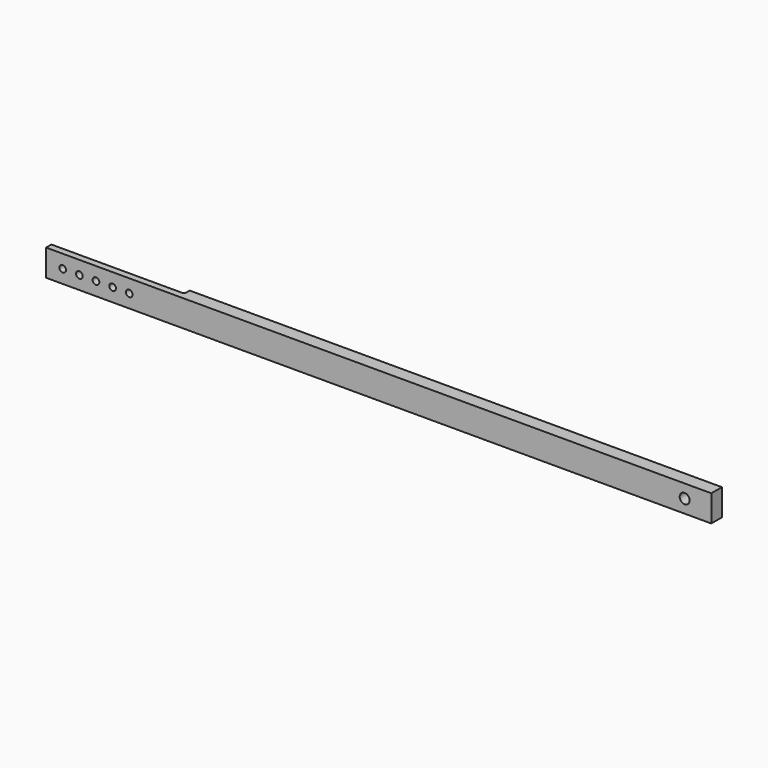
from build123d import *

# Parameters (mm, degrees)
F0_W     = 20
F0_H     = 40
F1_DEPTH = 500
F2_R     = 7.5
F2_R_2   = 5
F3_DEPTH = 25
F4_DEPTH = 25
F5_W     = 200
F5_H     = 10
F6_DEPTH = 40.001
F7_R     = 4


with BuildPart() as f1:
    # F0 (on Right) → F1 (new body, symmetric)
    with BuildSketch(Plane.YZ):
        Rectangle(F0_W, F0_H)
    extrude(amount=F1_DEPTH, both=True)

    # F2 (on face) → F3 (cut)
    with BuildSketch(Plane.XZ.offset(10)):
        with Locations((460, 0)):
            Circle(F2_R)
        with Locations((-475, 0)):
            Circle(F2_R_2)
        with Locations((-450, 0)):
            Circle(F2_R_2)
        with Locations((-425, 0)):
            Circle(F2_R_2)
        with Locations((-400, 0)):
            Circle(F2_R_2)
        with Locations((-375, 0)):
            Circle(F2_R_2)
    extrude(amount=-F3_DEPTH, mode=Mode.SUBTRACT)

    # F2 (on face) → F4 (cut)
    with BuildSketch(Plane.XZ.offset(10)):
        with Locations((460, 0)):
            Circle(F2_R)
        with Locations((-475, 0)):
            Circle(F2_R_2)
        with Locations((-450, 0)):
            Circle(F2_R_2)
        with Locations((-425, 0)):
            Circle(F2_R_2)
        with Locations((-400, 0)):
            Circle(F2_R_2)
        with Locations((-375, 0)):
            Circle(F2_R_2)
    extrude(amount=-F4_DEPTH, mode=Mode.SUBTRACT)

    # F5 (on face) → F6 (cut, through all)
    with BuildSketch(Plane.XY.offset(20)):
        with Locations((-400, 5)):
            Rectangle(F5_W, F5_H)
    extrude(amount=-F6_DEPTH, mode=Mode.SUBTRACT)

    # F7
    f7_edges = [f1.edges().sort_by_distance(p)[0] for p in [
        (-300, 0, 0),
    ]]
    fillet(f7_edges, radius=F7_R)


solid = f1.part
